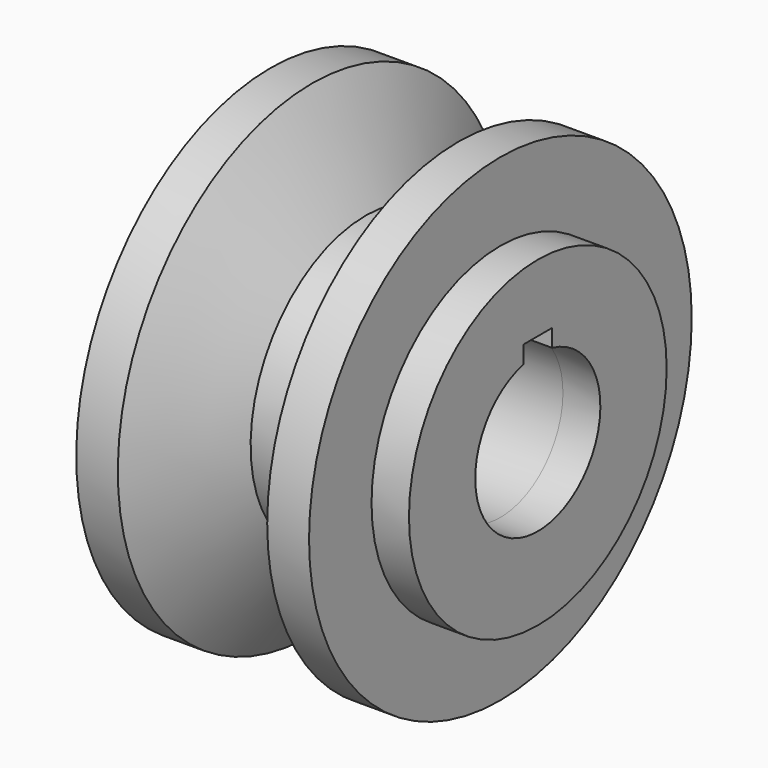
from build123d import *

# Parameters (mm, degrees)
F3_DEPTH = 49.784
F4_R     = 19.670017
F5_DEPTH = 4.572


with BuildPart() as f1:
    # F0 (on Front) → F1 (revolve)
    with BuildSketch(Plane.XZ):
        Polygon((4.108123, 17.581305), (-1.987877, 17.581305), (-8.539953, 29.660342), (-13.619953, 29.660342), (-13.619953, 25.989784), (-11.896132, 25.989784), (-9.338465, 17.581305), (-9.338465, 0), (14.451806, 0), (14.451806, 29.21), (9.341924, 29.21), align=None)
    revolve(axis=Axis((2.55667, 0, 0), (-1, 0, 0)))

    # F2 (on face) → F3 (cut)
    with BuildSketch(Plane.YZ.offset(14.451806)):
        with BuildLine():
            Line((-2.171075, 11.435072), (-2.171075, 9.300354))
            ThreePointArc((-2.171075, 9.300354), (0, -9.5504), (2.171075, 9.300354))
            Line((2.171075, 9.300354), (2.171075, 11.435072))
            Line((2.171075, 11.435072), (-2.171075, 11.435072))
        make_face()
    extrude(amount=-F3_DEPTH, mode=Mode.SUBTRACT)

    # F4 (on face) → F5 (join)
    with BuildSketch(Plane.YZ.offset(14.451806)):
        Circle(F4_R)
        with BuildLine():
            Line((2.171075, 11.435072), (2.171075, 9.300354))
            ThreePointArc((2.171075, 9.300354), (0, -9.5504), (-2.171075, 9.300354))
            Line((-2.171075, 9.300354), (-2.171075, 11.435072))
            Line((-2.171075, 11.435072), (2.171075, 11.435072))
        make_face(mode=Mode.SUBTRACT)
    extrude(amount=F5_DEPTH)


solid = f1.part
